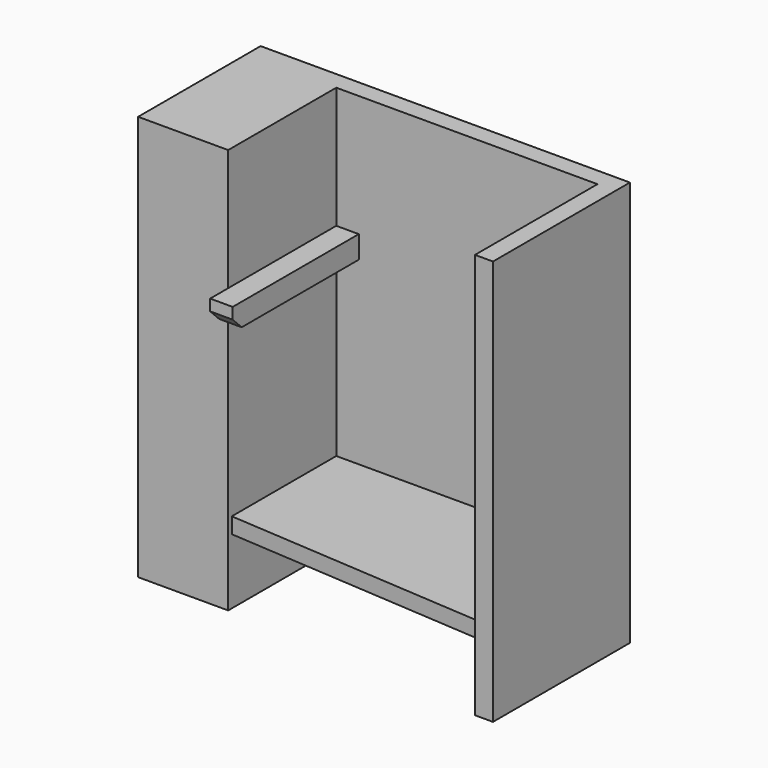
from build123d import *

# Parameters (mm, degrees)
F1_DEPTH      = 1828.8
F1_DEPTH_BACK = 457.2
F2_DEPTH      = 88.9
F3_W          = 127
F3_H          = 127
F4_DEPTH      = 762
F4_DEPTH_BACK = 127
F5_SIZE       = 63.5


with BuildPart() as f1:
    # F0 (on Top) → F1 (new body, two sides)
    with BuildSketch(Plane.XY) as f1_sk:
        Polygon((-508, 0), (0, 0), (0, 25.4), (0, 762), (1473.2, 762), (1473.2, -76.2), (1473.2, -101.6), (1574.8, -101.6), (1574.8, 863.6), (-508, 863.6), align=None)
    extrude(amount=F1_DEPTH)
    extrude(f1_sk.sketch, amount=-F1_DEPTH_BACK)

    # F0 (on Top) → F2 (join)
    with BuildSketch(Plane.XY):
        Polygon((0, 762), (0, 25.4), (1473.2, -76.2), (1473.2, 762), align=None)
    extrude(amount=-F2_DEPTH)


with BuildPart() as f4:
    # F3 (on face) → F4 (new body, two sides)
    with BuildSketch(Plane.XZ) as f4_sk:
        with Locations((63.5, 1079.5)):
            Rectangle(F3_W, F3_H)
    extrude(amount=-F4_DEPTH)
    extrude(f4_sk.sketch, amount=F4_DEPTH_BACK)

    # F5
    f5_edges = [f4.edges().sort_by_distance(p)[0] for p in [
        (63.5, -127, 1016),
    ]]
    chamfer(f5_edges, length=F5_SIZE)


solid = Compound([f1.part, f4.part])
